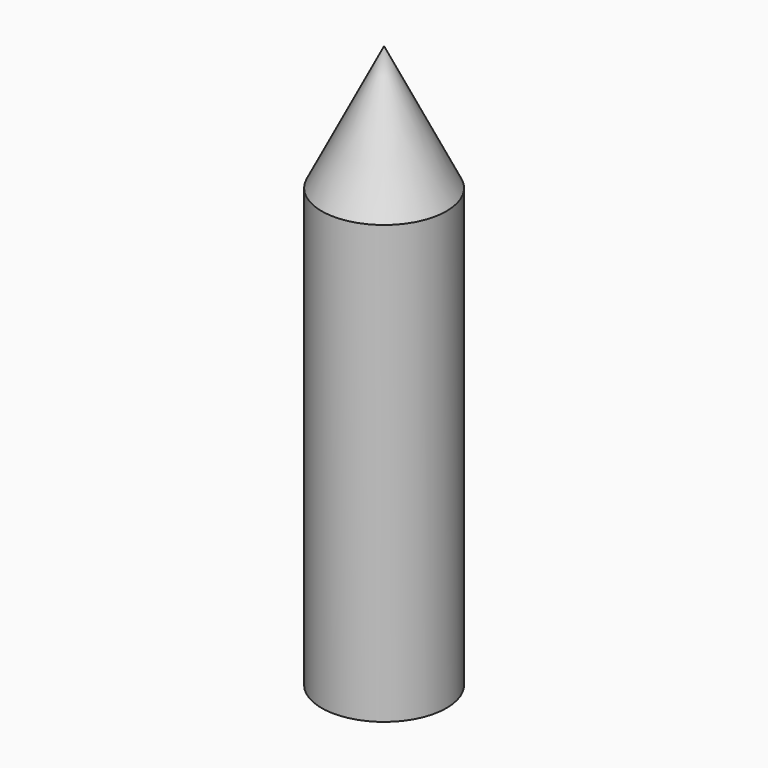
from build123d import *

# Parameters (mm, degrees)
F0_R     = 25.4
F0_R_2   = 10.795
F1_DEPTH = 177.8
F2_R     = 25.4
F3_DEPTH = 50.8
F4_SIZE2 = 25.4
F4_SIZE  = 50.8


with BuildPart() as f1:
    # F0 (on Top) → F1 (new body)
    with BuildSketch(Plane.XY):
        with Locations((0, -4.202133)):
            Circle(F0_R)
        with Locations((0, -4.202133)):
            Circle(F0_R_2, mode=Mode.SUBTRACT)
    extrude(amount=F1_DEPTH)

    # F2 (on face) → F3 (join)
    with BuildSketch(Plane.XY.offset(177.8)):
        with Locations((0, -4.202133)):
            Circle(F2_R)
    extrude(amount=F3_DEPTH)

    # F4
    f4_edges = [f1.edges().sort_by_distance(p)[0] for p in [
        (-25.4, -4.202133, 228.6),
    ]]
    chamfer(f4_edges, length=F4_SIZE, length2=F4_SIZE2)


solid = f1.part
